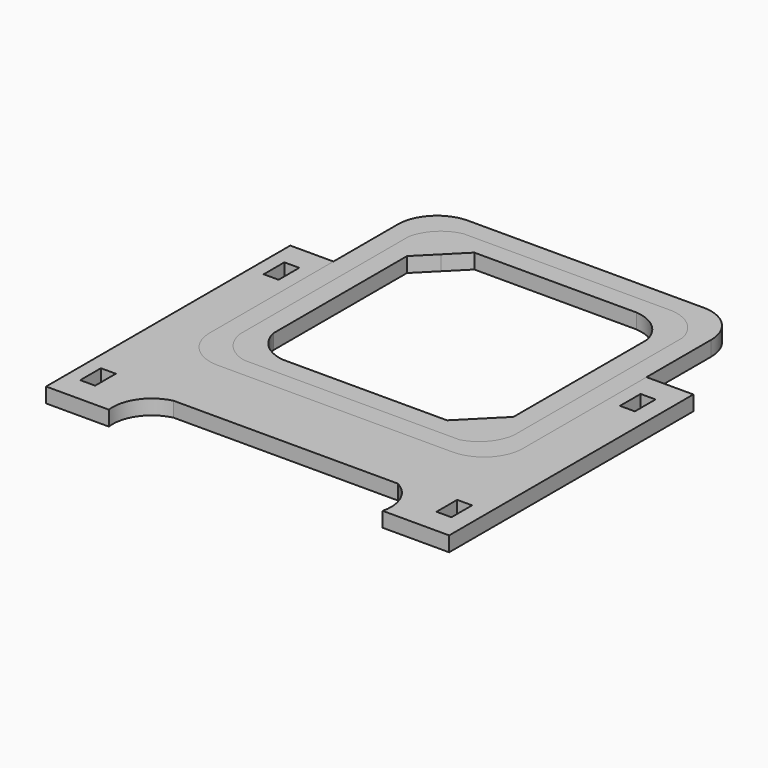
from build123d import *

# Parameters (mm, degrees)
F1_DEPTH = 19.05
F2_DEPTH = 19.05
F3_DEPTH = 19.05
F4_W     = 19.05
F4_H     = 33
F5_DEPTH = 19.051


with BuildPart() as f1:
    # F0 (on Top) → F1 (new body)
    with BuildSketch(Plane.XY):
        with BuildLine():
            Line((-200, -150), (-200, 47.169192))
            Line((-200, 47.169192), (-255.159124, 47.169192))
            Line((-255.159124, 47.169192), (-255.159124, -342.830808))
            Line((-255.159124, -342.830808), (-175, -342.830808))
            ThreePointArc((-175, -342.830808), (-166.564923, -307.673176), (-136.632211, -287.394066))
            Line((-136.632211, -287.394066), (150, -287.394066))
            ThreePointArc((150, -287.394066), (171.896841, -310.874796), (175, -342.830808))
            Line((175, -342.830808), (259.840876, -342.830808))
            Line((259.840876, -342.830808), (259.840876, 47.169192))
            Line((259.840876, 47.169192), (200, 47.169192))
            Line((200, 47.169192), (200, -150))
            ThreePointArc((200, -150), (185.355339, -185.355339), (150, -200))
            Line((150, -200), (-150, -200))
            ThreePointArc((-150, -200), (-185.355339, -185.355339), (-200, -150))
        make_face()
    extrude(amount=F1_DEPTH)

    # F4 (on face) → F5 (cut, through all)
    with BuildSketch(Plane.XY.offset(19.05)):
        with Locations((-227.603092, -1.330808)):
            Rectangle(F4_W, F4_H)
        with Locations((-227.603092, -294.330808)):
            Rectangle(F4_W, F4_H)
        with Locations((227.603092, -1.330808)):
            Rectangle(F4_W, F4_H)
        with Locations((227.603092, -294.330808)):
            Rectangle(F4_W, F4_H)
    extrude(amount=-F5_DEPTH, mode=Mode.SUBTRACT)


with BuildPart() as f2:
    # F0 (on Top) → F2 (new body)
    with BuildSketch(Plane.XY):
        with BuildLine():
            Line((-149.032295, 200), (-150.985367, 200))
            ThreePointArc((-150.985367, 200), (-185.377198, 185.351844), (-200, 150.949225))
            Line((-200, 150.949225), (-200, 47.169192))
            Line((-200, 47.169192), (-200, -150))
            ThreePointArc((-200, -150), (-185.355339, -185.355339), (-150, -200))
            Line((-150, -200), (150, -200))
            ThreePointArc((150, -200), (185.355339, -185.355339), (200, -150))
            Line((200, -150), (200, 47.169192))
            Line((200, 47.169192), (200, 150))
            Line((200, 150), (200, 150.38382))
            ThreePointArc((200, 150.38382), (186.805716, 184.035172), (154.376919, 200))
            Line((154.376919, 200), (145.623818, 200))
            Line((145.623818, 200), (-149.032295, 200))
        make_face()
        with BuildLine():
            ThreePointArc((-175, 136.366984), (-161.535938, 161.364057), (-136.632211, 175))
            Line((-136.632211, 175), (130.706638, 175))
            ThreePointArc((130.706638, 175), (159.129068, 162.878737), (175, 136.366984))
            Line((175, 136.366984), (175, -133.292252))
            ThreePointArc((175, -133.292252), (163.123617, -159.629349), (138.660701, -175))
            Line((138.660701, -175), (-136.632211, -175))
            ThreePointArc((-136.632211, -175), (-162.295646, -160.106785), (-175, -133.292252))
            Line((-175, -133.292252), (-175, 136.366984))
        make_face(mode=Mode.SUBTRACT)
    extrude(amount=F2_DEPTH)


with BuildPart() as f3:
    # F0 (on Top) → F3 (new body)
    with BuildSketch(Plane.XY):
        with BuildLine():
            Line((130.706638, 175), (-136.632211, 175))
            ThreePointArc((-136.632211, 175), (-161.535938, 161.364057), (-175, 136.366984))
            Line((-175, 136.366984), (-175, -133.292252))
            ThreePointArc((-175, -133.292252), (-162.295646, -160.106785), (-136.632211, -175))
            Line((-136.632211, -175), (138.660701, -175))
            ThreePointArc((138.660701, -175), (163.123617, -159.629349), (175, -133.292252))
            Line((175, -133.292252), (175, 136.366984))
            ThreePointArc((175, 136.366984), (159.129068, 162.878737), (130.706638, 175))
        make_face()
        with BuildLine():
            Line((-126.059029, 126.130707), (-102.261199, 150))
            Line((-102.261199, 150), (104.858465, 150))
            ThreePointArc((104.858465, 150), (134.109571, 137.618583), (150, 110.115476))
            Line((150, 110.115476), (150, -102.776636))
            Line((150, -102.776636), (126.630977, -126.215835))
            Line((126.630977, -126.215835), (102.918019, -150))
            Line((102.918019, -150), (-107.067909, -150))
            ThreePointArc((-107.067909, -150), (-134.66533, -137.526789), (-150, -111.410768))
            Line((-150, -111.410768), (-150, 102.117843))
            Line((-150, 102.117843), (-126.059029, 126.130707))
        make_face(mode=Mode.SUBTRACT)
    extrude(amount=F3_DEPTH)


solid = Compound([f1.part, f2.part, f3.part])
